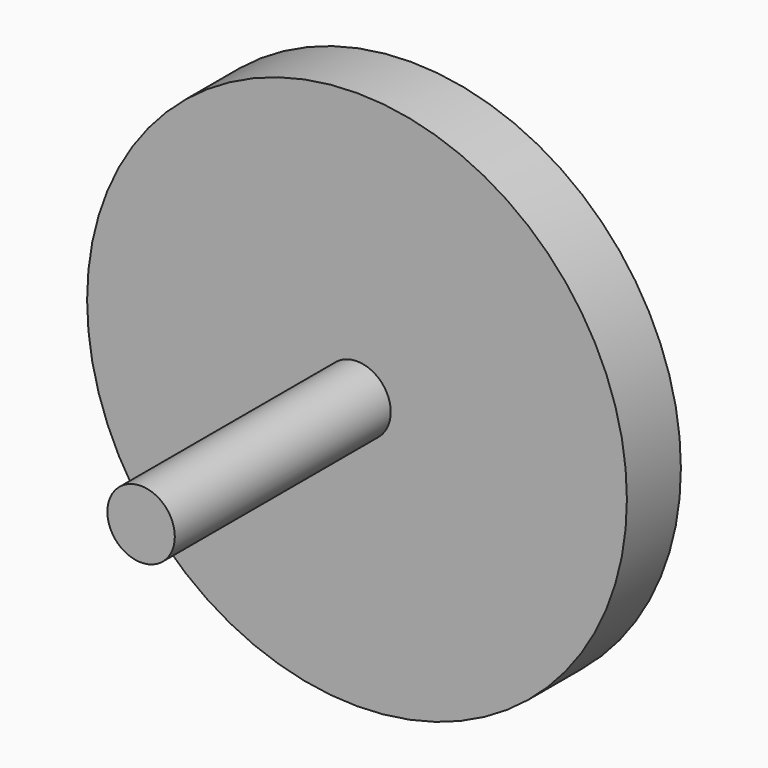
from build123d import *

# Parameters (mm, degrees)
F0_R     = 1.27
F1_DEPTH = 20.32
F3_R     = 10.16
F4_DEPTH = 2.54


with BuildPart() as f1:
    # F0 (on Front) → F1 (new body)
    with BuildSketch(Plane.XZ):
        Circle(F0_R)
    extrude(amount=F1_DEPTH)

    # F3 (on offset) → F4 (join)
    with BuildSketch(Plane.XZ.offset(10.16)):
        Circle(F3_R)
    extrude(amount=-F4_DEPTH)


solid = f1.part
